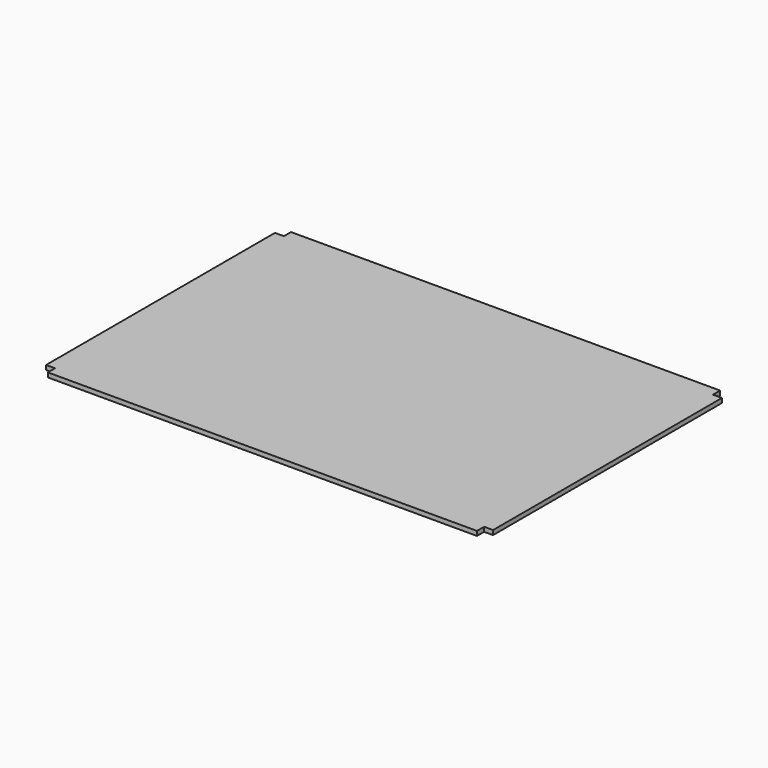
from build123d import *

# Parameters (mm, degrees)
F1_DEPTH = 12.7


with BuildPart() as f1:
    # F0 (on Top) → F1 (new body)
    with BuildSketch(Plane.XY):
        Polygon((635, -406.4), (635, 0), (635, 406.4), (609.6, 406.4), (609.6, 431.8), (0, 431.8), (-609.6, 431.8), (-609.6, 406.4), (-635, 406.4), (-635, 0), (-635, -406.4), (-609.6, -406.4), (-609.6, -431.8), (0, -431.8), (609.6, -431.8), (609.6, -406.4), align=None)
    extrude(amount=F1_DEPTH)


solid = f1.part
